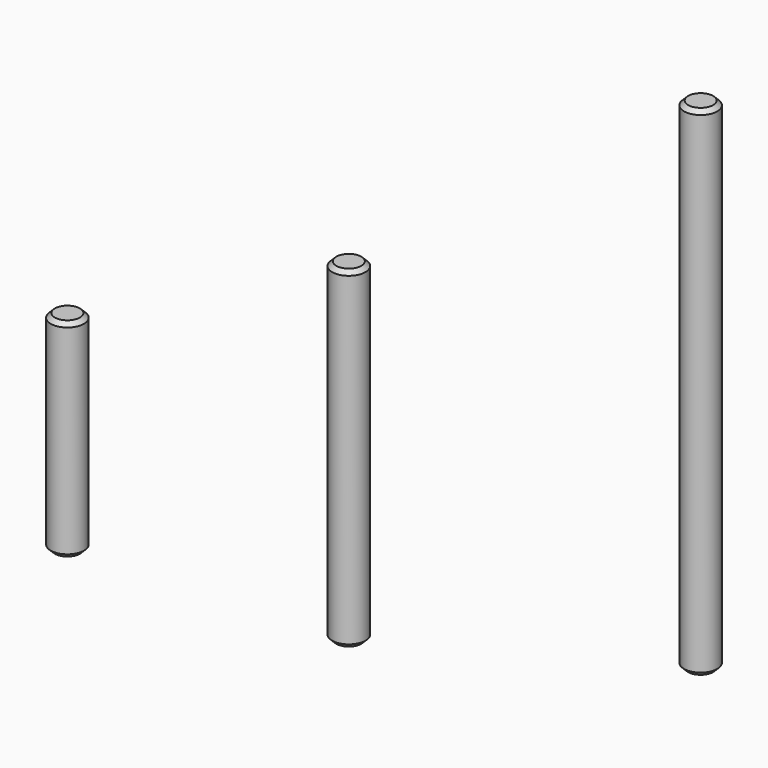
from build123d import *

# Parameters (mm, degrees)
F0_R     = 4
F1_DEPTH = 120
F2_SIZE  = 1
F3_R     = 4
F4_DEPTH = 50
F5_SIZE  = 1
F6_R     = 4
F7_DEPTH = 80
F8_SIZE  = 1


with BuildPart() as f1:
    # F0 (on Top) → F1 (new body)
    with BuildSketch(Plane.XY):
        Circle(F0_R)
    extrude(amount=F1_DEPTH)

    # F2
    f2_edges = [f1.edges().sort_by_distance(p)[0] for p in [
        (-4, 0, 120),
        (-4, 0, 0),
    ]]
    chamfer(f2_edges, length=F2_SIZE)


with BuildPart() as f4:
    # F3 (on Top) → F4 (new body)
    with BuildSketch(Plane.XY):
        with Locations((-122.867644, -36.714155)):
            Circle(F3_R)
    extrude(amount=F4_DEPTH)

    # F5
    f5_edges = [f4.edges().sort_by_distance(p)[0] for p in [
        (-126.867644, -36.714155, 50),
        (-126.867644, -36.714155, 0),
    ]]
    chamfer(f5_edges, length=F5_SIZE)


with BuildPart() as f7:
    # F6 (on Top) → F7 (new body)
    with BuildSketch(Plane.XY):
        with Locations((-58.746498, -32.292377)):
            Circle(F6_R)
    extrude(amount=F7_DEPTH)

    # F8
    f8_edges = [f7.edges().sort_by_distance(p)[0] for p in [
        (-62.746498, -32.292377, 80),
        (-62.746498, -32.292377, 0),
    ]]
    chamfer(f8_edges, length=F8_SIZE)


solid = Compound([f1.part, f4.part, f7.part])
